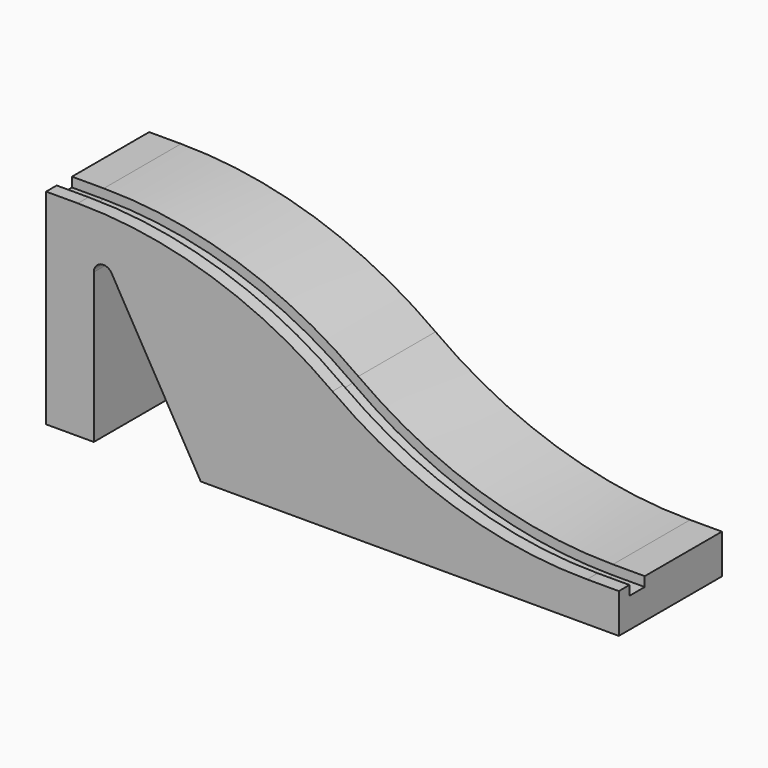
from build123d import *

# Parameters (mm, degrees)
F1_DEPTH = 20.25
F2_W     = 6
F2_H     = 3


with BuildPart() as f1:
    # F0 (on Front) → F1 (new body, symmetric)
    with BuildSketch(Plane.XZ):
        with BuildLine():
            Line((10, 64.4), (0, 64.4))
            Line((0, 64.4), (0, 0))
            Line((0, 0), (15, 0))
            Line((15, 0), (15, 47))
            ThreePointArc((15, 47), (17.223543, 49.897777), (20.598076, 48.5))
            Line((20.598076, 48.5), (48.599564, 0))
            Line((48.599564, 0), (180, 0))
            Line((180, 0), (180, 12.4))
            Line((180, 12.4), (170, 12.4))
            ThreePointArc((170, 12.4), (127.940518, 19.063133), (90, 38.4))
            ThreePointArc((90, 38.4), (52.059482, 57.736867), (10, 64.4))
        make_face()
    extrude(amount=F1_DEPTH, both=True)

    # F3: sweep along a path in F0
    with BuildLine(Plane.XZ) as f3_path:
        Line((180, 12.4), (170, 12.4))
        ThreePointArc((170, 12.4), (127.940518, 19.063133), (90, 38.4))
        ThreePointArc((90, 38.4), (52.059482, 57.736867), (10, 64.4))
        Line((10, 64.4), (0, 64.4))
    # F2 (on face) → F3 (sweep, cut)
    with BuildSketch(Plane.YZ.offset(180)):
        with Locations((-13.075, 10.9)):
            Rectangle(F2_W, F2_H)
    sweep(path=f3_path.line, mode=Mode.SUBTRACT)


solid = f1.part
